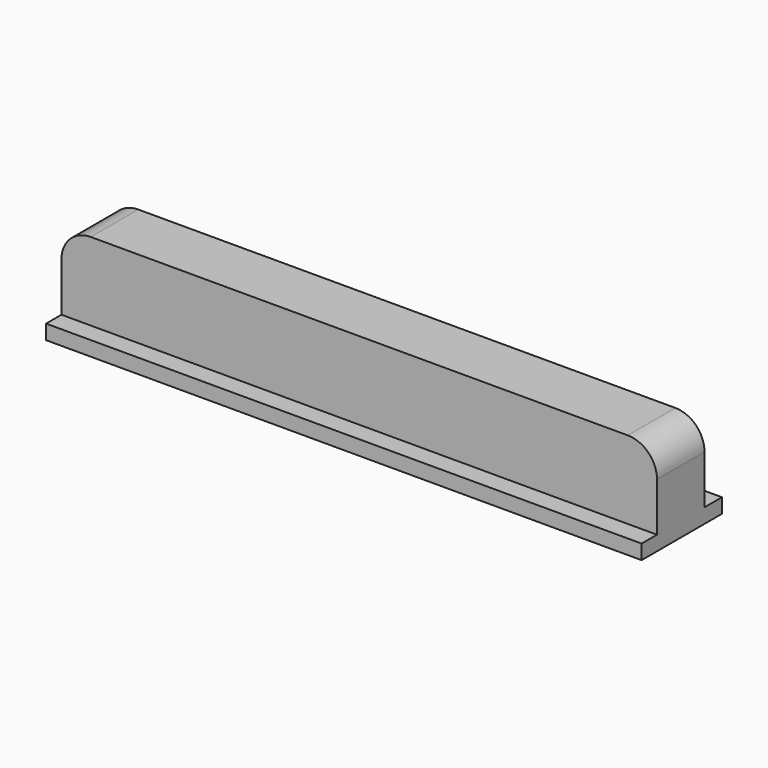
from build123d import *

# Parameters (mm, degrees)
F1_DEPTH = 10.3
F2_W     = 2.064651
F2_H     = 8.540146
F2_W_2   = 2.228884
F2_H_2   = 8.727841
F3_DEPTH = 61.101


with BuildPart() as f1:
    # F0 (on Front) → F1 (new body)
    with BuildSketch(Plane.XZ):
        with BuildLine():
            Line((24.277063, 19.090399), (-30.822937, 19.090399))
            ThreePointArc((-30.822937, 19.090399), (-32.944257, 18.211719), (-33.822937, 16.090399))
            Line((-33.822937, 16.090399), (-33.822937, 9.590399))
            Line((-33.822937, 9.590399), (27.277063, 9.590399))
            Line((27.277063, 9.590399), (27.277063, 16.090399))
            ThreePointArc((27.277063, 16.090399), (26.398384, 18.211719), (24.277063, 19.090399))
        make_face()
    extrude(amount=F1_DEPTH)

    # F2 (on face) → F3 (cut, through all)
    with BuildSketch(Plane.YZ.offset(27.277063)):
        with Locations((-9.361314, 15.360472)):
            Rectangle(F2_W, F2_H)
        with Locations((-1.114442, 15.45432)):
            Rectangle(F2_W_2, F2_H_2)
    extrude(amount=-F3_DEPTH, mode=Mode.SUBTRACT)


solid = f1.part
